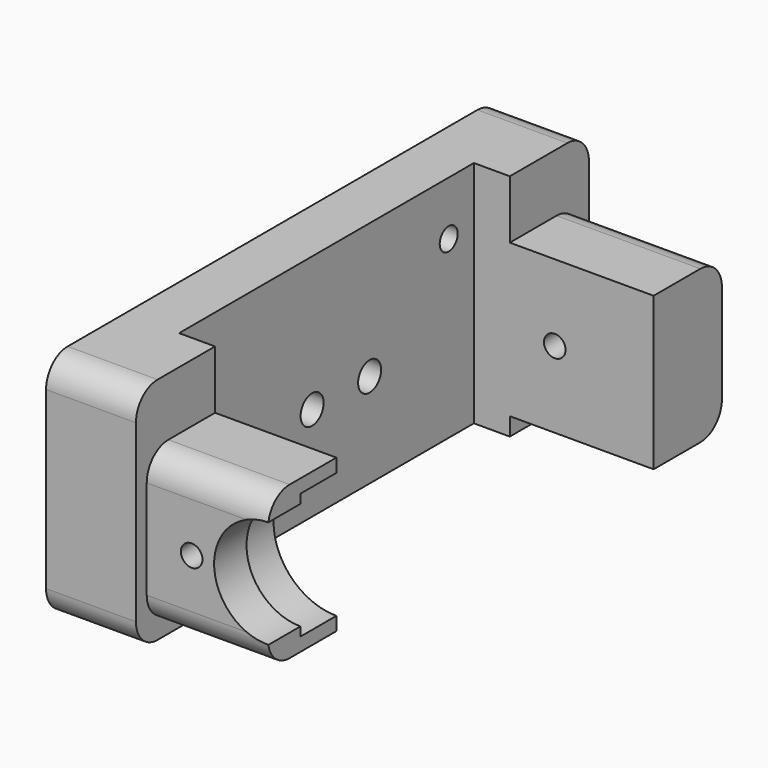
from build123d import *

# Parameters (mm, degrees)
CYLINDER959_R           = 1.6
CYLINDER959_DEPTH       = 10
CYLINDER959_PITCH_ANGLE = 90
CYLINDER960_R           = 1.6
CYLINDER960_DEPTH       = 10
CYLINDER960_PITCH_ANGLE = 90
CYLINDER962_R           = 3.1
CYLINDER962_DEPTH       = 2.5
CYLINDER962_PITCH_ANGLE = 90
CYLINDER961_R           = 3.1
CYLINDER961_DEPTH       = 2.5
CYLINDER961_PITCH_ANGLE = 90
BOX562_W                = 41
BOX562_H                = 41
BOX562_DEPTH            = 26
CYLINDER958_R           = 6
CYLINDER958_DEPTH       = 11
CYLINDER958_ROLL_ANGLE  = 90
CYLINDER963_R           = 7
CYLINDER963_DEPTH       = 5
CYLINDER963_ROLL_ANGLE  = 90
BOX563_W                = 10
BOX563_H                = 10
BOX563_DEPTH            = 17
CYLINDER953_R           = 1.2
CYLINDER953_DEPTH       = 10
CYLINDER953_ROLL_ANGLE  = 90
CYLINDER952_R           = 1.2
CYLINDER952_DEPTH       = 10
CYLINDER952_ROLL_ANGLE  = 90
CYLINDER957_R           = 1.25
CYLINDER957_DEPTH       = 15
CYLINDER957_PITCH_ANGLE = 90
CYLINDER955_R           = 1.25
CYLINDER955_DEPTH       = 11
CYLINDER955_PITCH_ANGLE = 90
CYLINDER956_R           = 1.25
CYLINDER956_DEPTH       = 15
CYLINDER956_PITCH_ANGLE = 90
CYLINDER954_R           = 1.25
CYLINDER954_DEPTH       = 11
CYLINDER954_PITCH_ANGLE = 90
BOX561_W                = 10
BOX561_H                = 63
BOX561_DEPTH            = 25.5
FILLET358_R             = 3
BOX560_W                = 16
BOX560_H                = 60
BOX560_DEPTH            = 17
FILLET359_R             = 3


with BuildPart() as cylinder1122:
    # Cylinder959 → Cylinder959 (new body)
    with BuildSketch(Plane.XY):
        Circle(CYLINDER959_R)
    extrude(amount=CYLINDER959_DEPTH)


with BuildPart() as cylinder1122_1:
    # Cylinder959 pitch: moved
    add(cylinder1122.part.rotate(Axis((0, 0, 0), (0, 1, 0)), CYLINDER959_PITCH_ANGLE))


with BuildPart() as cylinder1122_2:
    # Cylinder959 placement: moved
    add(cylinder1122_1.part.moved(Location((13.5, 83, -11))))


with BuildPart() as cylinder1123:
    # Cylinder960 → Cylinder960 (new body)
    with BuildSketch(Plane.XY):
        Circle(CYLINDER960_R)
    extrude(amount=CYLINDER960_DEPTH)


with BuildPart() as cylinder1123_1:
    # Cylinder960 pitch: moved
    add(cylinder1123.part.rotate(Axis((0, 0, 0), (0, 1, 0)), CYLINDER960_PITCH_ANGLE))


with BuildPart() as cylinder1123_2:
    # Cylinder960 placement: moved
    add(cylinder1123_1.part.moved(Location((13.5, 91, -11))))


with BuildPart() as cylinder1125:
    # Cylinder962 → Cylinder962 (new body)
    with BuildSketch(Plane.XY):
        Circle(CYLINDER962_R)
    extrude(amount=CYLINDER962_DEPTH)


with BuildPart() as cylinder1125_1:
    # Cylinder962 pitch: moved
    add(cylinder1125.part.rotate(Axis((0, 0, 0), (0, 1, 0)), CYLINDER962_PITCH_ANGLE))


with BuildPart() as cylinder1125_2:
    # Cylinder962 placement: moved
    add(cylinder1125_1.part.moved(Location((13.5, 83, -11))))


with BuildPart() as fusion603:
    # Cylinder961 → Cylinder961 (new body)
    with BuildSketch(Plane.XY):
        Circle(CYLINDER961_R)
    extrude(amount=CYLINDER961_DEPTH)


with BuildPart() as fusion603_1:
    # Cylinder961 pitch: moved
    add(fusion603.part.rotate(Axis((0, 0, 0), (0, 1, 0)), CYLINDER961_PITCH_ANGLE))


with BuildPart() as fusion603_2:
    # Cylinder961 placement: moved
    add(fusion603_1.part.moved(Location((13.5, 91, -11))))

    # Fusion603: union Cylinder1122, Cylinder1123, Cylinder1125
    add(cylinder1122_2.part)
    add(cylinder1123_2.part)
    add(cylinder1125_2.part)


with BuildPart() as cube753:
    # Box562 → Box562 (new body)
    with BuildSketch(Plane(origin=(19.5, 64.5, -21.5), x_dir=(1, 0, 0), z_dir=(0, 0, 1))):
        with Locations((20.5, 20.5)):
            Rectangle(BOX562_W, BOX562_H)
    extrude(amount=BOX562_DEPTH)


with BuildPart() as cylinder1121:
    # Cylinder958 → Cylinder958 (new body)
    with BuildSketch(Plane.XY):
        Circle(CYLINDER958_R)
    extrude(amount=CYLINDER958_DEPTH)


with BuildPart() as cylinder1121_1:
    # Cylinder958 roll: moved
    add(cylinder1121.part.rotate(Axis((0, 0, 0), (1, 0, 0)), CYLINDER958_ROLL_ANGLE))


with BuildPart() as cylinder1121_2:
    # Cylinder958 placement: moved
    add(cylinder1121_1.part.moved(Location((37, 64.5, -11))))


with BuildPart() as cylinder1126:
    # Cylinder963 → Cylinder963 (new body)
    with BuildSketch(Plane.XY):
        Circle(CYLINDER963_R)
    extrude(amount=CYLINDER963_DEPTH)


with BuildPart() as cylinder1126_1:
    # Cylinder963 roll: moved
    add(cylinder1126.part.rotate(Axis((0, 0, 0), (1, 0, 0)), CYLINDER963_ROLL_ANGLE))


with BuildPart() as cylinder1126_2:
    # Cylinder963 placement: moved
    add(cylinder1126_1.part.moved(Location((37, 64.5, -11))))


with BuildPart() as fusion604:
    # Box563 → Box563 (new body)
    with BuildSketch(Plane(origin=(37, 55, -19.5), x_dir=(1, 0, 0), z_dir=(0, 0, 1))):
        with Locations((5, 5)):
            Rectangle(BOX563_W, BOX563_H)
    extrude(amount=BOX563_DEPTH)

    # Fusion604: union Cube753, Cylinder1121, Cylinder1126
    add(cube753.part)
    add(cylinder1121_2.part)
    add(cylinder1126_2.part)


with BuildPart() as cylinder1116:
    # Cylinder953 → Cylinder953 (new body)
    with BuildSketch(Plane.XY):
        Circle(CYLINDER953_R)
    extrude(amount=CYLINDER953_DEPTH)


with BuildPart() as cylinder1116_1:
    # Cylinder953 roll: moved
    add(cylinder1116.part.rotate(Axis((0, 0, 0), (1, 0, 0)), CYLINDER953_ROLL_ANGLE))


with BuildPart() as cylinder1116_2:
    # Cylinder953 placement: moved
    add(cylinder1116_1.part.moved(Location((3, 10, 10))))


with BuildPart() as fusion600:
    # Cylinder952 → Cylinder952 (new body)
    with BuildSketch(Plane.XY):
        Circle(CYLINDER952_R)
    extrude(amount=CYLINDER952_DEPTH)


with BuildPart() as fusion600_1:
    # Cylinder952 roll: moved
    add(fusion600.part.rotate(Axis((0, 0, 0), (1, 0, 0)), CYLINDER952_ROLL_ANGLE))


with BuildPart() as fusion600_2:
    # Cylinder952 placement: moved
    add(fusion600_1.part.moved(Location((3, 60, 10))))

    # Fusion600: union Cylinder1116
    add(cylinder1116_2.part)


with BuildPart() as fusion600_3:
    # Fusion600 placement: moved
    add(fusion600_2.part.moved(Location((0, 0, 2))))


with BuildPart() as cylinder1120:
    # Cylinder957 → Cylinder957 (new body)
    with BuildSketch(Plane.XY):
        Circle(CYLINDER957_R)
    extrude(amount=CYLINDER957_DEPTH)


with BuildPart() as cylinder1120_1:
    # Cylinder957 pitch: moved
    add(cylinder1120.part.rotate(Axis((0, 0, 0), (0, 1, 0)), CYLINDER957_PITCH_ANGLE))


with BuildPart() as cylinder1120_2:
    # Cylinder957 placement: moved
    add(cylinder1120_1.part.moved(Location((-2, 23, 20))))


with BuildPart() as cylinder1118:
    # Cylinder955 → Cylinder955 (new body)
    with BuildSketch(Plane.XY):
        Circle(CYLINDER955_R)
    extrude(amount=CYLINDER955_DEPTH)


with BuildPart() as cylinder1118_1:
    # Cylinder955 pitch: moved
    add(cylinder1118.part.rotate(Axis((0, 0, 0), (0, 1, 0)), CYLINDER955_PITCH_ANGLE))


with BuildPart() as cylinder1118_2:
    # Cylinder955 placement: moved
    add(cylinder1118_1.part.moved(Location((-2, 13.5, 4))))


with BuildPart() as cylinder1119:
    # Cylinder956 → Cylinder956 (new body)
    with BuildSketch(Plane.XY):
        Circle(CYLINDER956_R)
    extrude(amount=CYLINDER956_DEPTH)


with BuildPart() as cylinder1119_1:
    # Cylinder956 pitch: moved
    add(cylinder1119.part.rotate(Axis((0, 0, 0), (0, 1, 0)), CYLINDER956_PITCH_ANGLE))


with BuildPart() as cylinder1119_2:
    # Cylinder956 placement: moved
    add(cylinder1119_1.part.moved(Location((-2, 57, 20))))


with BuildPart() as fusion601:
    # Cylinder954 → Cylinder954 (new body)
    with BuildSketch(Plane.XY):
        Circle(CYLINDER954_R)
    extrude(amount=CYLINDER954_DEPTH)


with BuildPart() as fusion601_1:
    # Cylinder954 pitch: moved
    add(fusion601.part.rotate(Axis((0, 0, 0), (0, 1, 0)), CYLINDER954_PITCH_ANGLE))


with BuildPart() as fusion601_2:
    # Cylinder954 placement: moved
    add(fusion601_1.part.moved(Location((-2, 66.5, 4))))

    # Fusion599: union Cylinder1120, Cylinder1118, Cylinder1119
    add(cylinder1120_2.part)
    add(cylinder1118_2.part)
    add(cylinder1119_2.part)


with BuildPart() as fusion601_3:
    # Fusion599 placement: moved
    add(fusion601_2.part.moved(Location((-10, -10, 1))))

    # Fusion601: union Fusion600
    add(fusion600_3.part)


with BuildPart() as fusion601_4:
    # Fusion601 placement: moved
    add(fusion601_3.part.moved(Location((25.5, 55, -23))))


with BuildPart() as fillet358:
    # Box561 → Box561 (new body)
    with BuildSketch(Plane(origin=(-12, 0, -5), x_dir=(1, 0, 0), z_dir=(0, 0, 1))):
        with Locations((5, 31.5)):
            Rectangle(BOX561_W, BOX561_H)
    extrude(amount=BOX561_DEPTH)

    # Fillet358
    fillet358_edges = [fillet358.edges().sort_by_distance(p)[0] for p in [
        (-7, 0, -5),
        (-7, 0, 20.5),
        (-7, 63, -5),
        (-7, 63, 20.5),
    ]]
    fillet(fillet358_edges, radius=FILLET358_R)


with BuildPart() as fillet358_1:
    # Fillet358 placement: moved
    add(fillet358.part.moved(Location((25.5, 53.5, -16.5))))


with BuildPart() as cross_member_front_lifted:
    # Box560 → Box560 (new body)
    with BuildSketch(Plane(origin=(-2, 0, 1.5), x_dir=(1, 0, 0), z_dir=(0, 0, 1))):
        with Locations((8, 30)):
            Rectangle(BOX560_W, BOX560_H)
    extrude(amount=BOX560_DEPTH)

    # Fillet359
    fillet359_edges = [cross_member_front_lifted.edges().sort_by_distance(p)[0] for p in [
        (6, 0, 1.5),
        (6, 0, 18.5),
        (6, 60, 1.5),
        (6, 60, 18.5),
    ]]
    fillet(fillet359_edges, radius=FILLET359_R)


with BuildPart() as cross_member_front_lifted_1:
    # Fillet359 placement: moved
    add(cross_member_front_lifted.part.moved(Location((25.5, 55, -21))))

    # Fusion605: union Fillet358
    add(fillet358_1.part)

    # Cut698: cut Fusion601
    add(fusion601_4.part, mode=Mode.SUBTRACT)

    # Cut699: cut Fusion604
    add(fusion604.part, mode=Mode.SUBTRACT)

    # Cut700: cut Fusion603
    add(fusion603_2.part, mode=Mode.SUBTRACT)


solid = cross_member_front_lifted_1.part
